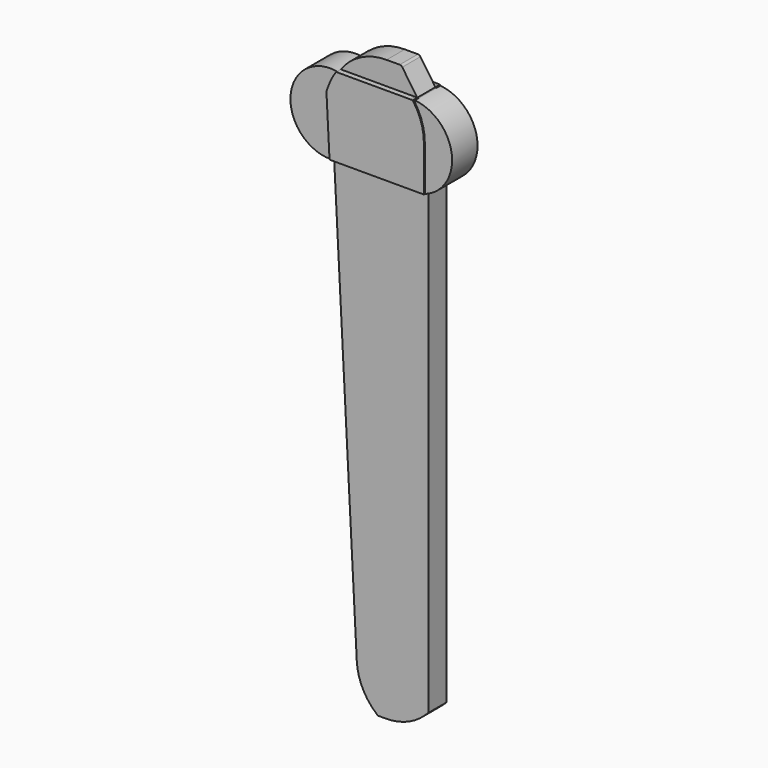
from build123d import *

# Parameters (mm, degrees)
F1_DEPTH = 1.27
F2_DEPTH = 1.778
F3_DEPTH = 1.905


with BuildPart() as f1:
    # F0 (on Front) → F1 (new body, symmetric)
    with BuildSketch(Plane.XZ):
        with BuildLine():
            Line((-17.1290759672, 62.1781415984), (-17.0449191323, 62.2570482765))
            ThreePointArc((-17.0449191323, 62.2570482765), (-17.1175233509, 62.2630083848), (-17.1902133933, 62.2678097582))
            Line((-17.1902133933, 62.2678097582), (-17.1290759672, 62.1781415984))
        make_face()
    extrude(amount=F1_DEPTH, both=True)



with BuildPart() as f1b:
    # F0 (on Front) → F1, piece 2 (new body, symmetric)
    with BuildSketch(Plane.XZ):
        with BuildLine():
            Line((-15.9414615482, 53.3987285048), (-26.4926385512, 53.3987285048))
            Line((-26.4926385512, 53.3987285048), (-23.9521881142, 4.6220757771))
            ThreePointArc((-23.9521881142, 4.6220757771), (-23.3140778798, 2.1604167523), (-21.7612694137, 0.1465310323))
            Line((-21.7612694137, 0.1465310323), (-21.5916018933, 0))
            Line((-21.5916018933, 0), (-20.7053358443, 0))
            ThreePointArc((-20.7053358443, 0), (-18.3436644921, 0.4555103339), (-16.3208169843, 1.7566902602))
            Line((-16.3208169843, 1.7566902602), (-15.9414615482, 2.1188019309))
            Line((-15.9414615482, 2.1188019309), (-15.9414615482, 53.3987285048))
        make_face()
    extrude(amount=F1_DEPTH, both=True)


with BuildPart() as f1c:
    # F0 (on Front) → F1, piece 3 (new body, symmetric)
    with BuildSketch(Plane.XZ):
        with BuildLine():
            ThreePointArc((-20.6214907347, 64.8756995797), (-23.4947607709, 64.1884567968), (-25.7460988084, 62.2754851857))
            Line((-25.7460988084, 62.2754851857), (-17.4548914656, 62.2754851857))
            ThreePointArc((-17.4548914656, 62.2754851857), (-17.322496796, 62.2735659256), (-17.1902133933, 62.2678097582))
            Line((-17.1902133933, 62.2678097582), (-18.8636997039, 64.722254562))
            ThreePointArc((-18.8636997039, 64.722254562), (-18.989842312, 64.834978978), (-19.1540390967, 64.8756995797))
            Line((-19.1540390967, 64.8756995797), (-20.6214907347, 64.8756995797))
        make_face()
    extrude(amount=F1_DEPTH, both=True)


with BuildPart() as f1_1:
    add(f1.part)

    add(f1b.part)  # F2 merges F1b

    add(f1c.part)  # F2 merges F1c
    # F0 (on Front) → F2 (join, symmetric)
    with BuildSketch(Plane.XZ):
        with BuildLine():
            Line((-26.4926385512, 53.3987285048), (-26.8381591886, 60.0327253342))
            Line((-26.8381591886, 60.0327253342), (-26.5671806364, 60.7553344362))
            ThreePointArc((-26.5671806364, 60.7553344362), (-26.2085820076, 61.5434654933), (-25.7460988084, 62.2754851857))
            ThreePointArc((-25.7460988084, 62.2754851857), (-30.946685328, 58.2430866257), (-26.4926385512, 53.3987285048))
        make_face()
        with BuildLine():
            Line((-15.9414615482, 58.4775210511), (-15.9414615482, 53.3987285048))
            ThreePointArc((-15.9414615482, 53.3987285048), (-12.9225271434, 58.2726765092), (-17.0449191323, 62.2570482765))
            Line((-17.0449191323, 62.2570482765), (-17.1290759672, 62.1781415984))
            Line((-17.1290759672, 62.1781415984), (-17.0449191323, 62.0547116635))
            ThreePointArc((-17.0449191323, 62.0547116635), (-16.2235935395, 60.3492790027), (-15.9414615482, 58.4775210511))
        make_face()
    extrude(amount=F2_DEPTH, both=True)


with BuildPart() as f3:
    # F0 (on Front) → F3 (new body, symmetric)
    with BuildSketch(Plane.XZ):
        with BuildLine():
            Line((-26.5671806364, 60.7553344362), (-26.8381591886, 60.0327253342))
            Line((-26.8381591886, 60.0327253342), (-26.4926385512, 53.3987285048))
            Line((-26.4926385512, 53.3987285048), (-21.3093711658, 58.2586357401))
            Line((-21.3093711658, 58.2586357401), (-25.7460988084, 62.2754851857))
            ThreePointArc((-25.7460988084, 62.2754851857), (-26.2085820076, 61.5434654933), (-26.5671806364, 60.7553344362))
        make_face()
        with BuildLine():
            Line((-17.4548914656, 62.2754851857), (-25.7460988084, 62.2754851857))
            Line((-25.7460988084, 62.2754851857), (-21.3093711658, 58.2586357401))
            Line((-21.3093711658, 58.2586357401), (-17.1290759672, 62.1781415984))
            Line((-17.1290759672, 62.1781415984), (-17.1902133933, 62.2678097582))
            ThreePointArc((-17.1902133933, 62.2678097582), (-17.322496796, 62.2735659256), (-17.4548914656, 62.2754851857))
        make_face()
        Polygon((-21.3093711658, 58.2586357401), (-26.4926385512, 53.3987285048), (-15.9414615482, 53.3987285048), align=None)
        with BuildLine():
            Line((-21.3093711658, 58.2586357401), (-15.9414615482, 53.3987285048))
            Line((-15.9414615482, 53.3987285048), (-15.9414615482, 58.4775210511))
            ThreePointArc((-15.9414615482, 58.4775210511), (-16.2235935395, 60.3492790027), (-17.0449191323, 62.0547116635))
            Line((-17.0449191323, 62.0547116635), (-17.1290759672, 62.1781415984))
            Line((-17.1290759672, 62.1781415984), (-21.3093711658, 58.2586357401))
        make_face()
    extrude(amount=F3_DEPTH, both=True)


solid = Compound([f1_1.part, f3.part])
